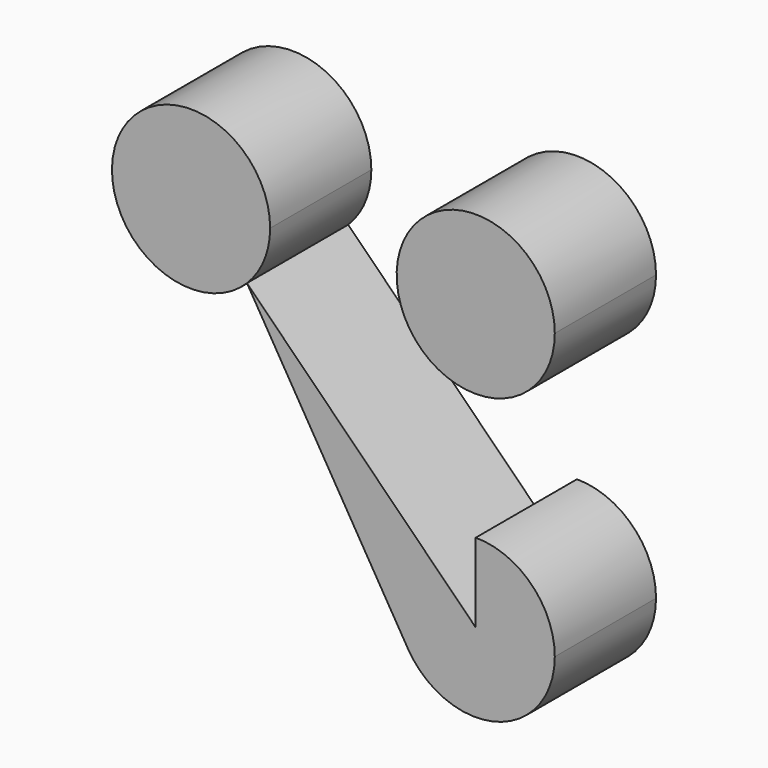
from build123d import *

# Parameters (mm, degrees)
F1_DEPTH = 20


with BuildPart() as f1:
    # F0 (on Front) → F1 (new body, symmetric)
    with BuildSketch(Plane.XZ):
        with BuildLine():
            ThreePointArc((-65, 90), (-113.096988, 99.567086), (-72.32233, 72.32233))
            ThreePointArc((-72.32233, 72.32233), (-66.903012, 80.432914), (-65, 90))
        make_face()
        with BuildLine():
            ThreePointArc((25, 90), (-17.67767, 107.67767), (0, 65))
            ThreePointArc((0, 65), (17.67767, 72.32233), (25, 90))
        make_face()
        with BuildLine():
            ThreePointArc((-17.67767, 17.67767), (-24.809696, 3.078798), (-21.46239, -12.820523))
            ThreePointArc((-21.46239, -12.820523), (6.649821, -24.099375), (25, 0))
            ThreePointArc((25, 0), (17.67767, 17.67767), (0, 25))
            Line((0, 25), (0, 0))
            Line((0, 0), (-17.67767, 17.67767))
        make_face()
        with BuildLine():
            Line((-72.32233, 72.32233), (-21.46239, -12.820523))
            ThreePointArc((-21.46239, -12.820523), (-24.809696, 3.078798), (-17.67767, 17.67767))
            Line((-17.67767, 17.67767), (-72.32233, 72.32233))
        make_face()
    extrude(amount=F1_DEPTH, both=True)


solid = f1.part
